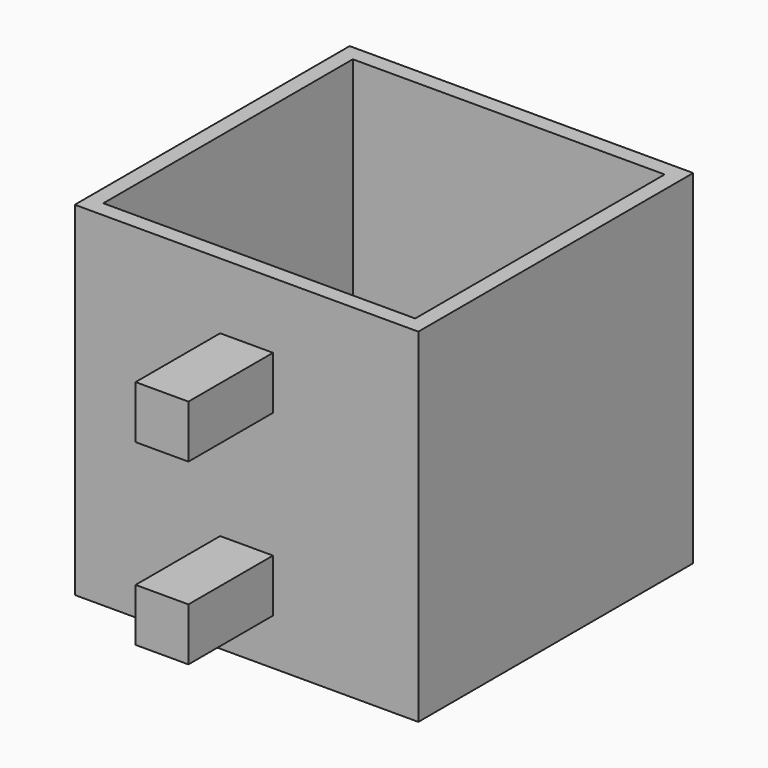
from build123d import *

# Parameters (mm, degrees)
F0_W     = 82.55
F0_H     = 82.55
F0_W_2   = 74.93
F0_H_2   = 74.93
F1_DEPTH = 82.55
F2_DEPTH = 3.81
F3_W     = 12.7
F3_H     = 12.7
F4_DEPTH = 25.4


with BuildPart() as f1:
    # F0 (on Top) → F1 (new body)
    with BuildSketch(Plane.XY):
        with Locations((62.48099, 6.929023)):
            Rectangle(F0_W, F0_H)
        with Locations((62.48099, 6.929023)):
            Rectangle(F0_W_2, F0_H_2, mode=Mode.SUBTRACT)
    extrude(amount=F1_DEPTH)

    # F0 (on Top) → F2 (join)
    with BuildSketch(Plane.XY):
        with Locations((62.48099, 6.929023)):
            Rectangle(F0_W_2, F0_H_2)
    extrude(amount=F2_DEPTH)

    # F3 (on face) → F4 (join)
    with BuildSketch(Plane.XZ.offset(34.345977)):
        with Locations((62.48099, 60.371522)):
            Rectangle(F3_W, F3_H)
        with Locations((62.48099, 17.477156)):
            Rectangle(F3_W, F3_H)
    extrude(amount=F4_DEPTH)


solid = f1.part
